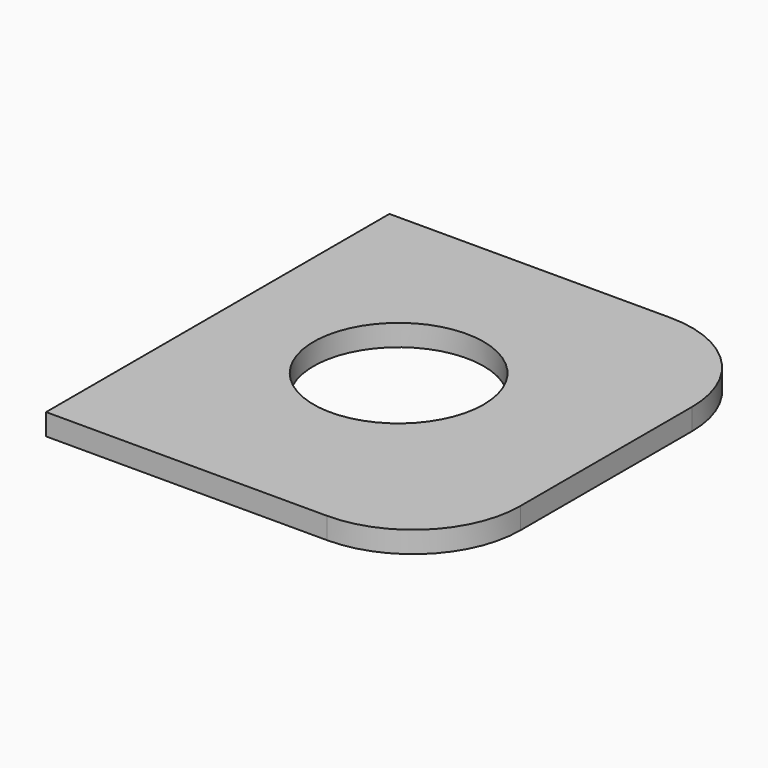
from build123d import *

# Parameters (mm, degrees)
F0_R     = 2.013664
F1_DEPTH = 0.508
F2_R     = 2.54


with BuildPart() as f1:
    # F0 (on Top) → F1 (new body)
    with BuildSketch(Plane.XY):
        Polygon((5.08, 9.940335), (-3.64114, 9.940335), (-4.115906, 9.940335), (-4.115906, -0.219665), (5.08, -0.219665), align=None)
        with Locations((0, 5.06829)):
            Circle(F0_R, mode=Mode.SUBTRACT)
    extrude(amount=F1_DEPTH)

    # F2
    f2_edges = [f1.edges().sort_by_distance(p)[0] for p in [
        (5.08, 9.940335, 0.254),
        (5.08, -0.219665, 0.254),
    ]]
    fillet(f2_edges, radius=F2_R)


solid = f1.part
